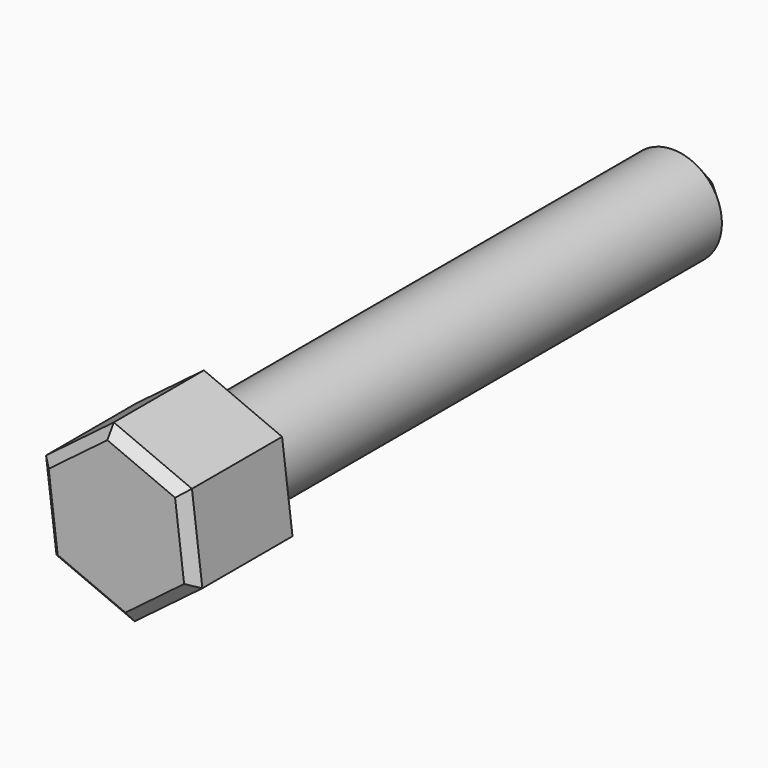
from build123d import *

# Parameters (mm, degrees)
F1_DEPTH = 15.875
F2_SIZE  = 1.27
F4_R     = 6.35
F5_DEPTH = 79.375
F6_SIZE  = 5.08


with BuildPart() as f1:
    # F0 (on Front) → F1 (new body)
    with BuildSketch(Plane.XZ):
        Polygon((-1.349322, 10.91544), (-10.127709, 4.289173), (-8.778387, -6.626267), (1.349322, -10.91544), (10.127709, -4.289173), (8.778387, 6.626267), align=None)
    extrude(amount=-F1_DEPTH)

    # F2
    f2_edges = [f1.edges().sort_by_distance(p)[0] for p in [
        (3.714533, 0, 8.770853),
        (-5.738515, 0, 7.602307),
        (-9.453048, 0, -1.168547),
        (-3.714533, 0, -8.770853),
        (5.738515, 0, -7.602307),
        (9.453048, 0, 1.168547),
    ]]
    chamfer(f2_edges, length=F2_SIZE)

    # F4 (on offset) → F5 (join)
    with BuildSketch(Plane(origin=(0, 15.875, 0), x_dir=(1, 0, 0), z_dir=(0, 1, 0))):
        Circle(F4_R)
    extrude(amount=F5_DEPTH)

    # F6
    f6_edges = [f1.edges().sort_by_distance(p)[0] for p in [
        (-6.35, 95.25, 0),
    ]]
    chamfer(f6_edges, length=F6_SIZE)


solid = f1.part
